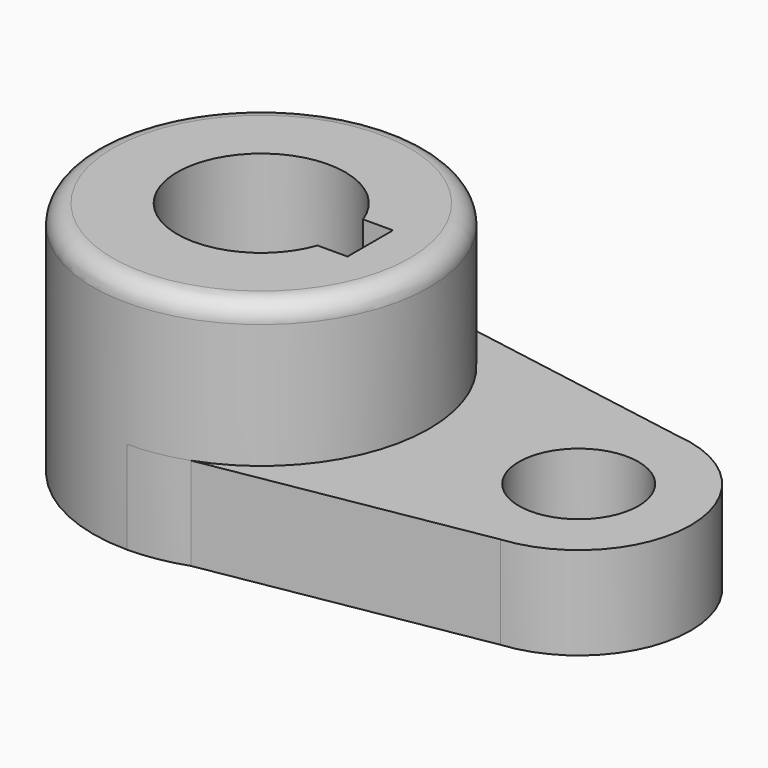
from build123d import *

# Parameters (mm, degrees)
F0_R     = 10.16
F1_DEPTH = 15.7734
F2_R     = 28.575
F3_DEPTH = 40.2336
F5_DEPTH = 40.2346
F6_R     = 3.302


with BuildPart() as f1:
    # F0 (on Top) → F1 (new body)
    with BuildSketch(Plane.XY):
        with BuildLine():
            Line((9.559057, 26.928703), (0, 28.575))
            ThreePointArc((0, 28.575), (-28.575, 0), (0, -28.575))
            Line((0, -28.575), (9.559057, -26.928703))
            ThreePointArc((9.559057, -26.928703), (23.341815, -16.48303), (28.575, 0))
            ThreePointArc((28.575, 0), (23.341815, 16.48303), (9.559057, 26.928703))
        make_face()
        with BuildLine():
            ThreePointArc((13.447765, -4.826), (-14.2875, 0), (13.447765, 4.826))
            Line((13.447765, 4.826), (18.5293, 4.826))
            Line((18.5293, 4.826), (18.5293, 0))
            Line((18.5293, 0), (18.5293, -4.826))
            Line((18.5293, -4.826), (13.447765, -4.826))
        make_face(mode=Mode.SUBTRACT)
        with BuildLine():
            ThreePointArc((9.559057, 26.928703), (4.849894, 28.160418), (0, 28.575))
            Line((0, 28.575), (9.559057, 26.928703))
        make_face()
        with BuildLine():
            Line((9.559057, -26.928703), (0, -28.575))
            ThreePointArc((0, -28.575), (4.849894, -28.160418), (9.559057, -26.928703))
        make_face()
        with BuildLine():
            Line((55.833732, 18.959104), (9.559057, 26.928703))
            ThreePointArc((9.559057, 26.928703), (23.341815, 16.48303), (28.575, 0))
            ThreePointArc((28.575, 0), (23.341815, -16.48303), (9.559057, -26.928703))
            Line((9.559057, -26.928703), (55.833732, -18.959104))
            ThreePointArc((55.833732, -18.959104), (73.025, 0), (55.833732, 18.959104))
        make_face()
        with Locations((53.975, 0)):
            Circle(F0_R, mode=Mode.SUBTRACT)
    extrude(amount=F1_DEPTH)

    # F2 (on Top) → F3 (join)
    with BuildSketch(Plane.XY):
        Circle(F2_R)
    extrude(amount=F3_DEPTH)

    # F4 (on Top) → F5 (cut, through all)
    with BuildSketch(Plane.XY):
        with BuildLine():
            Line((18.5293, 4.826), (13.447765, 4.826))
            ThreePointArc((13.447765, 4.826), (-14.2875, 0), (13.447765, -4.826))
            Line((13.447765, -4.826), (18.5293, -4.826))
            Line((18.5293, -4.826), (18.5293, 0))
            Line((18.5293, 0), (18.5293, 4.826))
        make_face()
    extrude(amount=F5_DEPTH, mode=Mode.SUBTRACT)

    # F6
    f6_edges = [f1.edges().sort_by_distance(p)[0] for p in [
        (-28.575, 0, 40.2336),
    ]]
    fillet(f6_edges, radius=F6_R)


solid = f1.part
